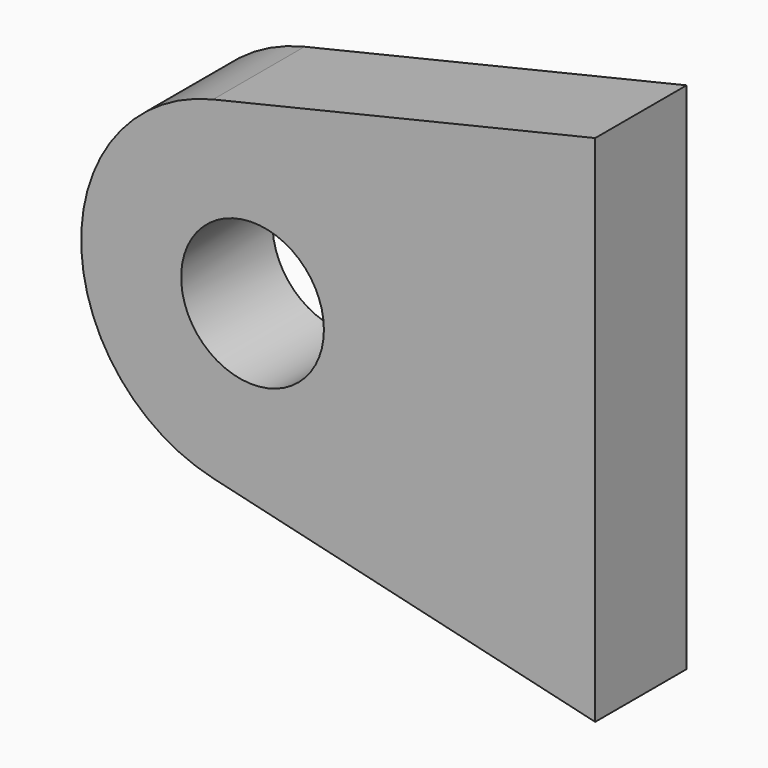
from build123d import *

# Parameters (mm, degrees)
F0_R     = 12.5
F1_DEPTH = 20


with BuildPart() as f1:
    # F0 (on Front) → F1 (new body)
    with BuildSketch(Plane.XZ):
        with BuildLine():
            ThreePointArc((-66.897273, -29.196363), (-41.384391, -23.525711), (-30, 0))
            ThreePointArc((-30, 0), (-41.384391, 23.525711), (-66.897273, 29.196363))
            ThreePointArc((-66.897273, 29.196363), (-90, 0), (-66.897273, -29.196363))
        make_face()
        with Locations((-60, 0)):
            Circle(F0_R, mode=Mode.SUBTRACT)
        with BuildLine():
            ThreePointArc((-66.897273, 29.196363), (-41.384391, 23.525711), (-30, 0))
            ThreePointArc((-30, 0), (-41.384391, -23.525711), (-66.897273, -29.196363))
            Line((-66.897273, -29.196363), (0, -45))
            Line((0, -45), (0, 45))
            Line((0, 45), (-66.897273, 29.196363))
        make_face()
    extrude(amount=F1_DEPTH)


solid = f1.part
